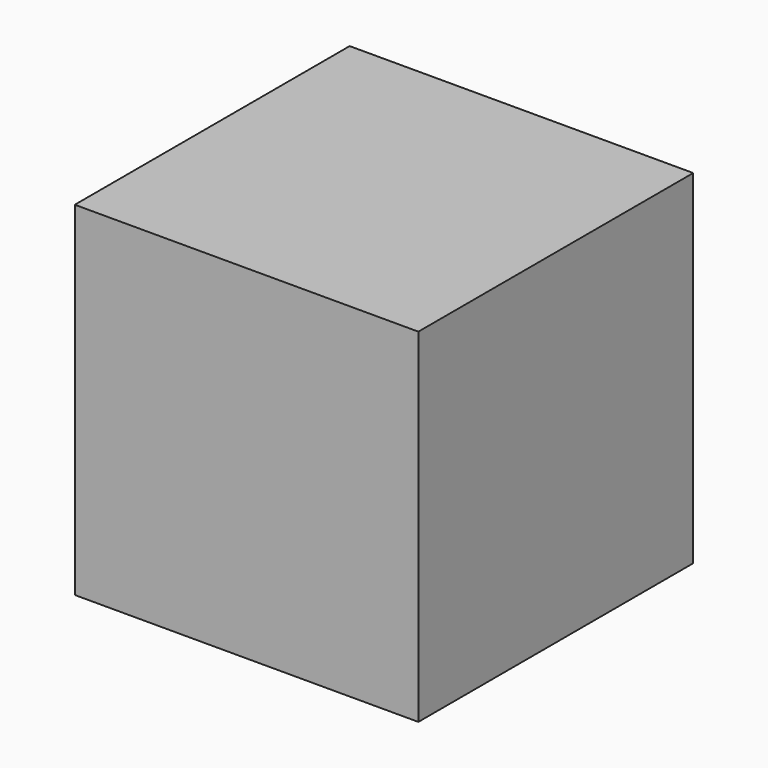
from build123d import *

# Parameters (mm, degrees)
F0_W     = 20
F0_H     = 20
F1_DEPTH = 20
F2_R     = 2.6
F3_DEPTH = 1


with BuildPart() as f1:
    # F0 (on Front) → F1 (new body)
    with BuildSketch(Plane.XZ):
        with Locations((10, 10)):
            Rectangle(F0_W, F0_H)
    extrude(amount=F1_DEPTH)

    # F2 (on face) → F3 (cut)
    with BuildSketch(Plane(origin=(0, 0, 0), x_dir=(-1, 0, 0), z_dir=(0, 1, 0))):
        with Locations((-10, 10)):
            Circle(F2_R)
        with Locations((-15, 15)):
            Circle(F2_R)
        with Locations((-5, 15)):
            Circle(F2_R)
        with Locations((-15, 5)):
            Circle(F2_R)
        with Locations((-5, 5)):
            Circle(F2_R)
    extrude(amount=-F3_DEPTH, mode=Mode.SUBTRACT)


solid = f1.part
